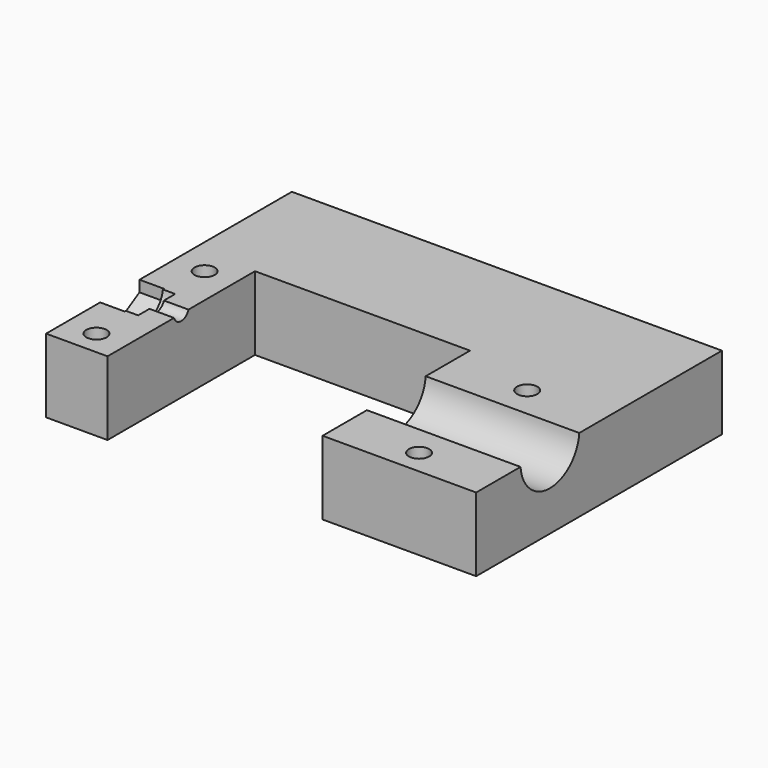
from build123d import *

# Parameters (mm, degrees)
F0_W      = 70
F0_H      = 50
F1_DEPTH  = 30
F4_DEPTH  = 30
F5_DEPTH  = 4
F6_R      = 3.8
F7_DEPTH  = 2
F8_R      = 1.55
F9_DEPTH  = 7
F10_R     = 6
F12_DEPTH = 25
F11_R     = 0.5
F13_DEPTH = 1
F14_W     = 70
F14_H     = 50
F15_DEPTH = 18
F16_R     = 1.65
F17_DEPTH = 12


with BuildPart() as f1:
    # F0 (on Top) → F1 (new body)
    with BuildSketch(Plane.XY):
        Rectangle(F0_W, F0_H)
    extrude(amount=F1_DEPTH)

    # F3 (on Top) → F4 (cut, through all)
    with BuildSketch(Plane.XY):
        Polygon((10, -25), (10, 0), (10, 5), (0, 5), (-25, 5), (-25, -25), align=None)
    extrude(amount=F4_DEPTH, mode=Mode.SUBTRACT)

    # F2 (on face) → F5 (cut)
    with BuildSketch(Plane(origin=(-35, 0, 0), x_dir=(0, -1, 0), z_dir=(-1, 0, 0))):
        Polygon((10, 17.12), (5.998963, 14.81), (5.998963, 10.19), (10, 7.88), (14.001037, 10.19), (14.001037, 14.81), align=None)
    extrude(amount=-F5_DEPTH, mode=Mode.SUBTRACT)

    # F6 (on face) → F7 (cut)
    with BuildSketch(Plane(origin=(-31, 0, 0), x_dir=(0, -1, 0), z_dir=(-1, 0, 0))):
        with Locations((10, 12.5)):
            Circle(F6_R)
    extrude(amount=-F7_DEPTH, mode=Mode.SUBTRACT)

    # F8 (on face) → F9 (cut)
    with BuildSketch(Plane(origin=(-29, 0, 0), x_dir=(0, -1, 0), z_dir=(-1, 0, 0))):
        with Locations((10, 12.5)):
            Circle(F8_R)
    extrude(amount=-F9_DEPTH, mode=Mode.SUBTRACT)

    # F10 (on face) → F12 (cut, through all)
    with BuildSketch(Plane.YZ.offset(35)):
        with Locations((-10, 12.5)):
            Circle(F10_R)
    extrude(amount=-F12_DEPTH, mode=Mode.SUBTRACT)

    # F11 (on face) → F13 (cut)
    with BuildSketch(Plane(origin=(0, 25, 0), x_dir=(-1, 0, 0), z_dir=(0, 1, 0))):
        with Locations((90, 6)):
            Circle(F11_R)
        with Locations((65, 6)):
            Circle(F11_R)
    extrude(amount=-F13_DEPTH, mode=Mode.SUBTRACT)

    # F14 (on face) → F15 (cut)
    with BuildSketch(Plane.XY.offset(30)):
        Rectangle(F14_W, F14_H)
    extrude(amount=-F15_DEPTH, mode=Mode.SUBTRACT)

    # F16 (on face) → F17 (cut, through all)
    with BuildSketch(Plane.XY.offset(12)):
        with Locations((22.5, 1)):
            Circle(F16_R)
        with Locations((22.5, -21)):
            Circle(F16_R)
        with Locations((-30, 1)):
            Circle(F16_R)
        with Locations((-30, -21)):
            Circle(F16_R)
    extrude(amount=-F17_DEPTH, mode=Mode.SUBTRACT)


solid = f1.part
